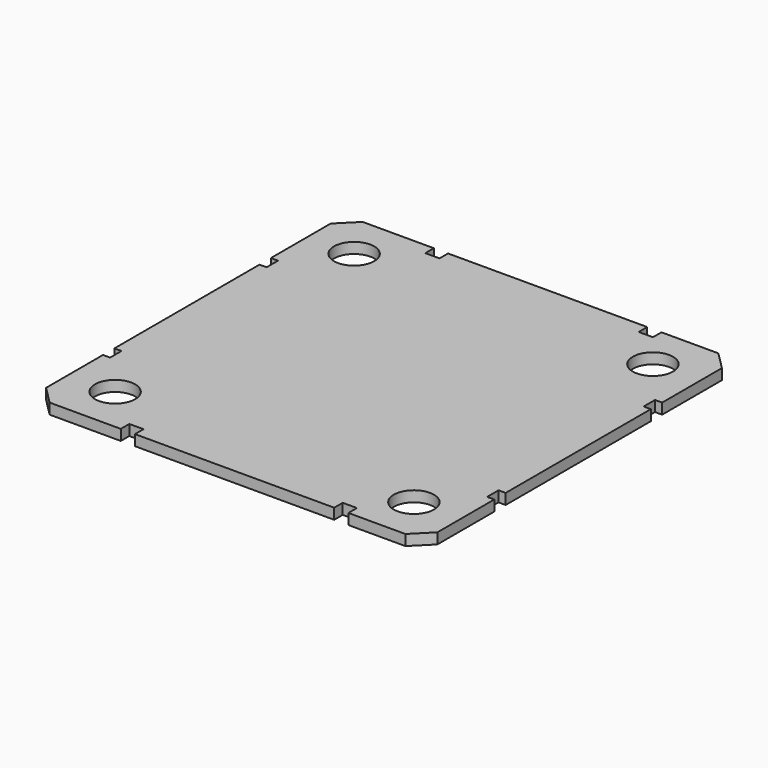
from build123d import *

# Parameters (mm, degrees)
CYLINDER008_R          = 0.565
CYLINDER008_DEPTH      = 5
CYLINDER014_R          = 0.565
CYLINDER014_DEPTH      = 5
CYLINDER012_R          = 0.565
CYLINDER012_DEPTH      = 5
CYLINDER011_R          = 0.565
CYLINDER011_DEPTH      = 5
BOX011_W               = 0.4
BOX011_H               = 1
BOX011_DEPTH           = 1
BOX011_PLACEMENT_ANGLE = 90
BOX015_W               = 0.4
BOX015_H               = 1
BOX015_DEPTH           = 1
BOX015_PLACEMENT_ANGLE = 90
BOX009_W               = 0.4
BOX009_H               = 1
BOX009_DEPTH           = 1
BOX009_PLACEMENT_ANGLE = 90
BOX030_W               = 0.4
BOX030_H               = 1
BOX030_DEPTH           = 1
BOX030_PLACEMENT_ANGLE = 90
BOX012_W               = 0.4
BOX012_H               = 1
BOX012_DEPTH           = 1
BOX010_W               = 0.4
BOX010_H               = 1
BOX010_DEPTH           = 1
BOX008_W               = 0.4
BOX008_H               = 1
BOX008_DEPTH           = 1
BOX026_W               = 0.4
BOX026_H               = 1
BOX026_DEPTH           = 1
BOX021_W               = 11
BOX021_H               = 11
BOX021_DEPTH           = 0.3
CHAMFER005_SIZE        = 0.5


with BuildPart() as cilindro009:
    # Cylinder008 → Cylinder008 (new body)
    with BuildSketch(Plane(origin=(4.2, -4.2, 0), x_dir=(1, 0, 0), z_dir=(0, 0, 1))):
        Circle(CYLINDER008_R)
    extrude(amount=CYLINDER008_DEPTH)


with BuildPart() as cilindro008:
    # Cylinder014 → Cylinder014 (new body)
    with BuildSketch(Plane(origin=(-4.2, -4.2, 0), x_dir=(1, 0, 0), z_dir=(0, 0, 1))):
        Circle(CYLINDER014_R)
    extrude(amount=CYLINDER014_DEPTH)


with BuildPart() as cilindro006:
    # Cylinder012 → Cylinder012 (new body)
    with BuildSketch(Plane(origin=(4.2, 4.2, 0), x_dir=(1, 0, 0), z_dir=(0, 0, 1))):
        Circle(CYLINDER012_R)
    extrude(amount=CYLINDER012_DEPTH)


with BuildPart() as cilindro007:
    # Cylinder011 → Cylinder011 (new body)
    with BuildSketch(Plane(origin=(-4.2, 4.2, 0), x_dir=(1, 0, 0), z_dir=(0, 0, 1))):
        Circle(CYLINDER011_R)
    extrude(amount=CYLINDER011_DEPTH)


with BuildPart() as obj1:
    # Box011 → Box011 (new body)
    with BuildSketch(Plane.XY):
        with Locations((0.2, 0.5)):
            Rectangle(BOX011_W, BOX011_H)
    extrude(amount=BOX011_DEPTH)


with BuildPart() as obj1_1:
    # Box011 placement: moved
    add(obj1.part.moved(Location((6.3, -3, 3))).rotate(Axis((6.3, -3, 3), (0, 0, 1)), BOX011_PLACEMENT_ANGLE))


with BuildPart() as obj2:
    # Box015 → Box015 (new body)
    with BuildSketch(Plane.XY):
        with Locations((0.2, 0.5)):
            Rectangle(BOX015_W, BOX015_H)
    extrude(amount=BOX015_DEPTH)


with BuildPart() as obj2_1:
    # Box015 placement: moved
    add(obj2.part.moved(Location((6.3, 2.5, 3))).rotate(Axis((6.3, 2.5, 3), (0, 0, 1)), BOX015_PLACEMENT_ANGLE))


with BuildPart() as obj3:
    # Box009 → Box009 (new body)
    with BuildSketch(Plane.XY):
        with Locations((0.2, 0.5)):
            Rectangle(BOX009_W, BOX009_H)
    extrude(amount=BOX009_DEPTH)


with BuildPart() as obj3_1:
    # Box009 placement: moved
    add(obj3.part.moved(Location((-5.3, -3, 3))).rotate(Axis((-5.3, -3, 3), (0, 0, 1)), BOX009_PLACEMENT_ANGLE))


with BuildPart() as obj4:
    # Box030 → Box030 (new body)
    with BuildSketch(Plane.XY):
        with Locations((0.2, 0.5)):
            Rectangle(BOX030_W, BOX030_H)
    extrude(amount=BOX030_DEPTH)


with BuildPart() as obj4_1:
    # Box030 placement: moved
    add(obj4.part.moved(Location((-5.3, 2.5, 3))).rotate(Axis((-5.3, 2.5, 3), (0, 0, 1)), BOX030_PLACEMENT_ANGLE))


with BuildPart() as obj5:
    # Box012 → Box012 (new body)
    with BuildSketch(Plane(origin=(3, -6.2, 3), x_dir=(1, 0, 0), z_dir=(0, 0, 1))):
        with Locations((0.2, 0.5)):
            Rectangle(BOX012_W, BOX012_H)
    extrude(amount=BOX012_DEPTH)


with BuildPart() as obj6:
    # Box010 → Box010 (new body)
    with BuildSketch(Plane(origin=(-3, -6.2, 3), x_dir=(1, 0, 0), z_dir=(0, 0, 1))):
        with Locations((0.2, 0.5)):
            Rectangle(BOX010_W, BOX010_H)
    extrude(amount=BOX010_DEPTH)


with BuildPart() as obj7:
    # Box008 → Box008 (new body)
    with BuildSketch(Plane(origin=(3, 5.2, 3), x_dir=(1, 0, 0), z_dir=(0, 0, 1))):
        with Locations((0.2, 0.5)):
            Rectangle(BOX008_W, BOX008_H)
    extrude(amount=BOX008_DEPTH)


with BuildPart() as obj8:
    # Box026 → Box026 (new body)
    with BuildSketch(Plane(origin=(-3, 5.2, 3), x_dir=(1, 0, 0), z_dir=(0, 0, 1))):
        with Locations((0.2, 0.5)):
            Rectangle(BOX026_W, BOX026_H)
    extrude(amount=BOX026_DEPTH)


with BuildPart() as obj9:
    # Box021 → Box021 (new body)
    with BuildSketch(Plane(origin=(-5.5, -5.5, 3.6), x_dir=(1, 0, 0), z_dir=(0, 0, 1))):
        with Locations((5.5, 5.5)):
            Rectangle(BOX021_W, BOX021_H)
    extrude(amount=BOX021_DEPTH)

    # Chamfer005
    chamfer005_edges = [obj9.edges().sort_by_distance(p)[0] for p in [
        (-5.5, -5.5, 3.75),
        (-5.5, 5.5, 3.75),
        (5.5, -5.5, 3.75),
        (5.5, 5.5, 3.75),
    ]]
    chamfer(chamfer005_edges, length=CHAMFER005_SIZE)


with BuildPart() as obj9_1:
    # Chamfer005 placement: moved
    add(obj9.part.moved(Location((0, 0, -0.4))))

    # Cut006: cut obj8
    add(obj8.part, mode=Mode.SUBTRACT)

    # Cut023: cut obj7
    add(obj7.part, mode=Mode.SUBTRACT)

    # Cut027: cut obj6
    add(obj6.part, mode=Mode.SUBTRACT)

    # Cut024: cut obj5
    add(obj5.part, mode=Mode.SUBTRACT)

    # Cut020: cut obj4
    add(obj4_1.part, mode=Mode.SUBTRACT)

    # Cut032: cut obj3
    add(obj3_1.part, mode=Mode.SUBTRACT)

    # Cut019: cut obj2
    add(obj2_1.part, mode=Mode.SUBTRACT)

    # Cut031: cut obj1
    add(obj1_1.part, mode=Mode.SUBTRACT)

    # Cut016: cut Cilindro007
    add(cilindro007.part, mode=Mode.SUBTRACT)

    # Cut034: cut Cilindro006
    add(cilindro006.part, mode=Mode.SUBTRACT)

    # Cut025: cut Cilindro008
    add(cilindro008.part, mode=Mode.SUBTRACT)

    # Cut028: cut Cilindro009
    add(cilindro009.part, mode=Mode.SUBTRACT)


with BuildPart() as obj9_2:
    # Cut028 placement: moved
    add(obj9_1.part.moved(Location((3.5, 2.3, 1))))


solid = obj9_2.part
